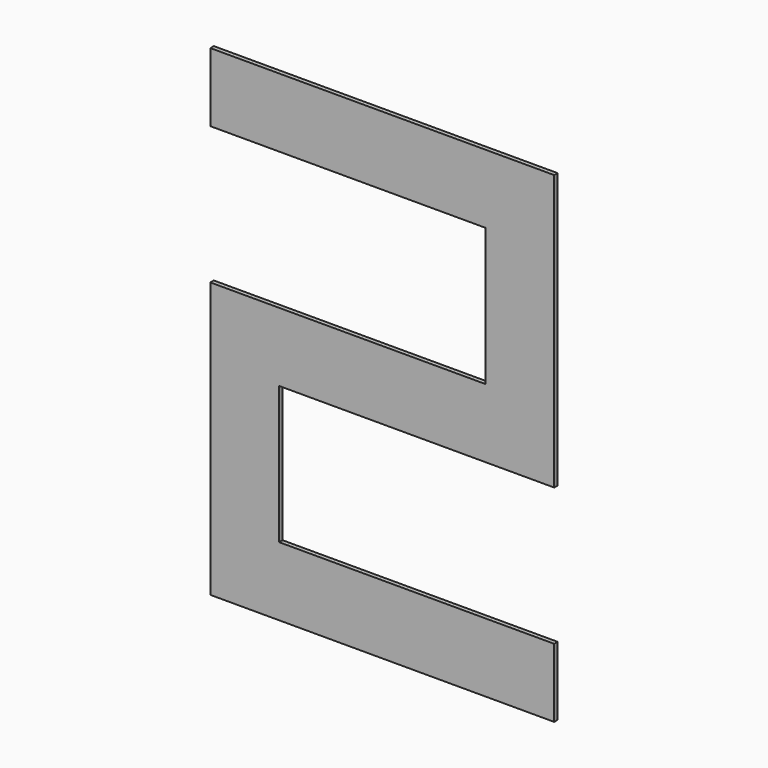
from build123d import *

# Parameters (mm, degrees)
F0_W     = 50.8
F0_H     = 101.6
F1_DEPTH = 3.175


with BuildPart() as f1:
    # F0 (on Front) → F1 (new body)
    with BuildSketch(Plane.XZ):
        Polygon((-254, 0), (0, 0), (0, 50.8), (-203.2, 50.8), (-254, 50.8), align=None)
        with Locations((-228.6, 101.6)):
            Rectangle(F0_W, F0_H)
        Polygon((-254, 203.2), (-254, 152.4), (-203.2, 152.4), (0, 152.4), (0, 203.2), (-50.8, 203.2), align=None)
        with Locations((-25.4, 254)):
            Rectangle(F0_W, F0_H)
        Polygon((-254, 304.8), (-50.8, 304.8), (0, 304.8), (0, 355.6), (-254, 355.6), align=None)
    extrude(amount=-F1_DEPTH)


solid = f1.part
